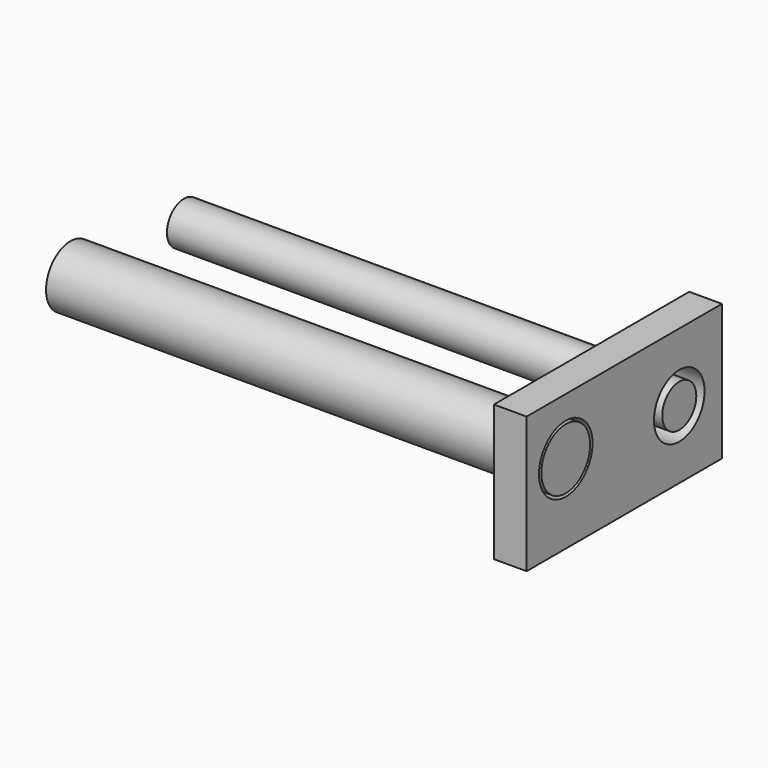
from build123d import *

# Parameters (mm, degrees)
F0_W     = 53.078588
F0_H     = 29.603792
F0_R     = 7.2786
F0_R_2   = 6.874734
F1_DEPTH = 7.112
F2_R     = 6.630812
F2_R_2   = 4.626915
F3_DEPTH = 107.696


with BuildPart() as f1:
    # F0 (on Right) → F1 (new body)
    with BuildSketch(Plane.YZ):
        with Locations((-81.741052, 40.867043)):
            Rectangle(F0_W, F0_H)
        with Locations((-97.650297, 43.279875)):
            Circle(F0_R, mode=Mode.SUBTRACT)
        with Locations((-66.794194, 40.867043)):
            Circle(F0_R_2, mode=Mode.SUBTRACT)
    extrude(amount=F1_DEPTH)


with BuildPart() as f3:
    # F2 (on face) → F3 (new body)
    with BuildSketch(Plane.YZ.offset(7.112)):
        with Locations((-97.650297, 43.279875)):
            Circle(F2_R)
        with Locations((-66.794194, 40.867043)):
            Circle(F2_R_2)
    extrude(amount=-F3_DEPTH)


solid = Compound([f1.part, f3.part])
